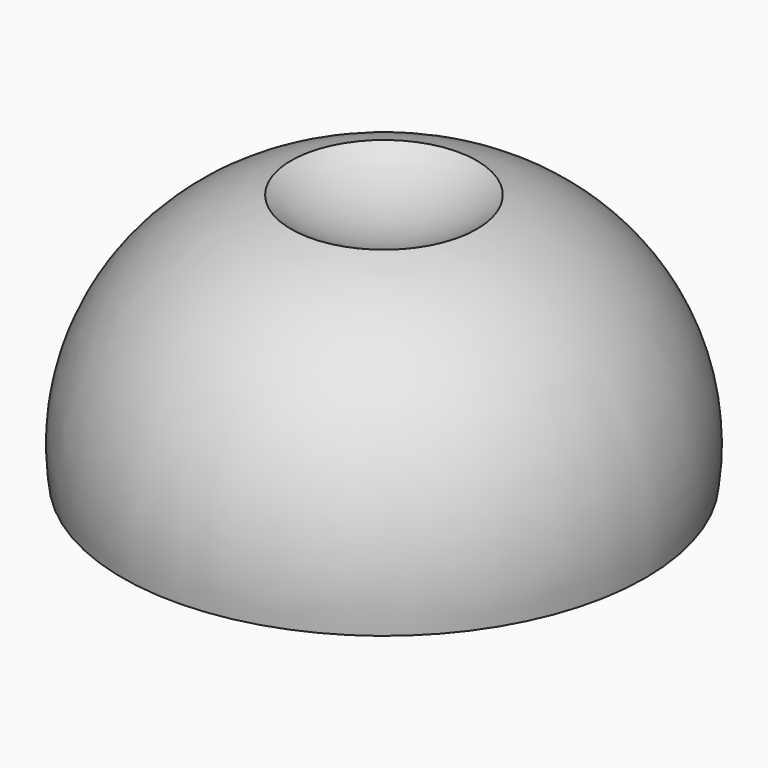
from build123d import *

# Parameters (mm, degrees)
SKETCH001_W  = 1.15
SKETCH001_H  = 1.85
POCKET_DEPTH = 5


with BuildPart() as part:
    # Sketch → Revolution (revolve)
    with BuildSketch(Plane.XZ):
        with BuildLine():
            ThreePointArc((0, 6), (1.321655, 6.210666), (2.512322, 6.821784))
            ThreePointArc((7.076375, 0), (6.107951, 4.289746), (2.512322, 6.821784))
            Line((7.076375, 0), (6.440959, 0))
            ThreePointArc((6.440959, 0), (5.315373, 2.832423), (2.5, 4))
            Line((2.5, 0), (2.5, 4))
            Line((0, 0), (2.5, 0))
            Line((0, 0), (0, 6))
        make_face()
    revolve(axis=Axis((0, 0, 0), (0, 0, 1)))

    # Sketch001 (on Face6 of Revolution) → Pocket (cut)
    with BuildSketch(Plane(origin=(0, 0, 0), x_dir=(1, 0, 0), z_dir=(0, 0, -1))):
        Rectangle(SKETCH001_W, SKETCH001_H)
    extrude(amount=-POCKET_DEPTH, mode=Mode.SUBTRACT)


solid = part.part
